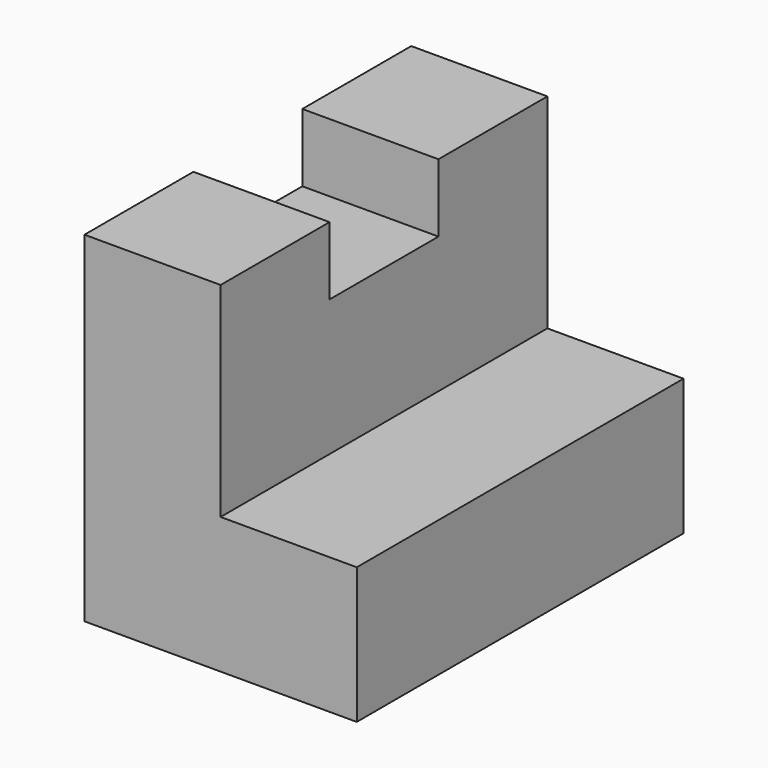
from build123d import *

# Parameters (mm, degrees)
F1_DEPTH = 38.1
F2_W     = 12.7
F2_H     = 6.35
F3_DEPTH = 12.7
F4_DEPTH = 12.7
F5_W     = 12.7
F5_H     = 6.35
F6_DEPTH = 12.7


with BuildPart() as f1:
    # F0 (on Front) → F1 (new body)
    with BuildSketch(Plane.XZ):
        Polygon((-43.0376454253, 49.6439802366), (-55.7376454253, 49.6439802366), (-55.7376454253, 17.8939802366), (-30.3376454253, 17.8939802366), (-30.3376454253, 30.5939802366), (-43.0376454253, 30.5939802366), align=None)
    extrude(amount=F1_DEPTH)

    # F2 (on face) → F3 (join)
    with BuildSketch(Plane.YZ.offset(-43.0376454253)):
        with Locations((-17.718813771, 46.4689802366)):
            Rectangle(F2_W, F2_H)
    extrude(amount=F3_DEPTH)

    # F4 (cut): a face of the model
    f4_faces = [f1.faces().sort_by_distance(p)[0] for p in [
        (-30.3376454253, -17.718813771, 46.4689802366),
    ]]
    extrude(f4_faces, amount=-F4_DEPTH, mode=Mode.SUBTRACT)

    # F5 (on face) → F6 (cut)
    with BuildSketch(Plane.YZ.offset(-43.0376454253)):
        with Locations((-19.05, 46.4689802366)):
            Rectangle(F5_W, F5_H)
    extrude(amount=-F6_DEPTH, mode=Mode.SUBTRACT)


solid = f1.part
